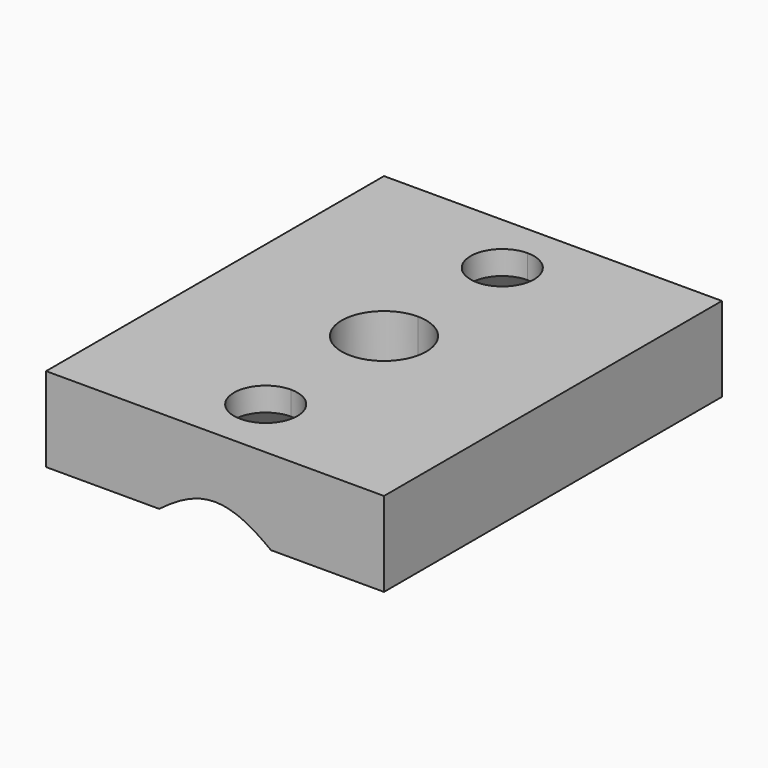
from build123d import *

# Parameters (mm, degrees)
F1_DEPTH       = 6.35
F2_D           = 4.7625
F2_CSINK_D     = 12.7
F2_CSINK_ANGLE = 82


with BuildPart() as f1:
    # F0 (on Top) → F1 (new body)
    with BuildSketch(Plane.XY):
        with BuildLine():
            Line((-12.7, 15.875), (-12.7, -15.875))
            Line((-12.7, -15.875), (0, -15.875))
            Line((0, -15.875), (0, -13.49375))
            ThreePointArc((0, -13.49375), (-2.38125, -11.1125), (0, -8.73125))
            Line((0, -8.73125), (0, -3.175))
            ThreePointArc((0, -3.175), (-3.175, 0), (0, 3.175))
            Line((0, 3.175), (0, 8.73125))
            ThreePointArc((0, 8.73125), (-2.38125, 11.1125), (0, 13.49375))
            Line((0, 13.49375), (0, 15.875))
            Line((0, 15.875), (-12.7, 15.875))
        make_face()
        with BuildLine():
            Line((0, -13.49375), (0, -15.875))
            Line((0, -15.875), (12.7, -15.875))
            Line((12.7, -15.875), (12.7, 15.875))
            Line((12.7, 15.875), (0, 15.875))
            Line((0, 15.875), (0, 13.49375))
            ThreePointArc((0, 13.49375), (1.683798, 12.796298), (2.38125, 11.1125))
            ThreePointArc((2.38125, 11.1125), (1.683798, 9.428702), (0, 8.73125))
            Line((0, 8.73125), (0, 3.175))
            ThreePointArc((0, 3.175), (2.245064, 2.245064), (3.175, 0))
            ThreePointArc((3.175, 0), (2.245064, -2.245064), (0, -3.175))
            Line((0, -3.175), (0, -8.73125))
            ThreePointArc((0, -8.73125), (1.683798, -9.428702), (2.38125, -11.1125))
            ThreePointArc((2.38125, -11.1125), (1.683798, -12.796298), (0, -13.49375))
        make_face()
    extrude(amount=F1_DEPTH)

    # F2 (through all)
    with Locations(Plane(origin=(0, 0, 0), x_dir=(1, 0, 0), z_dir=(0, 0, -1))):
        with Locations((0, 11.1125), (0, -11.1125)):
            CounterSinkHole(F2_D / 2, F2_CSINK_D / 2, counter_sink_angle=F2_CSINK_ANGLE)


solid = f1.part
